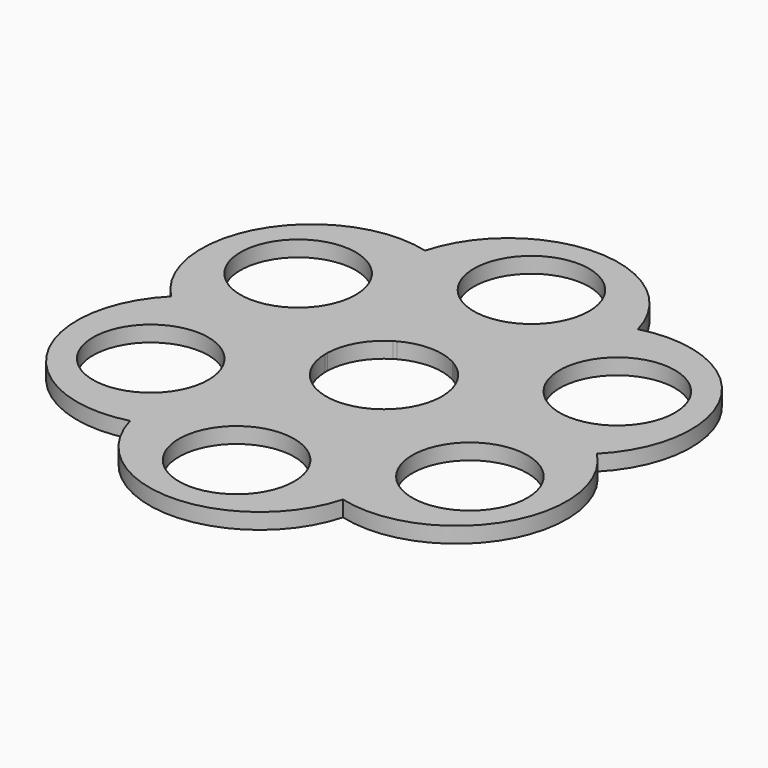
from build123d import *

# Parameters (mm, degrees)
F0_R     = 10.95
F1_DEPTH = 3


with BuildPart() as f1:
    # F0 (on Top) → F1 (new body)
    with BuildSketch(Plane.XY):
        with BuildLine():
            ThreePointArc((10.996136, 0.291549), (9.526279, 5.5), (5.750556, 9.377159))
            ThreePointArc((5.750556, 9.377159), (5.5, 9.526279), (5.245579, 9.668707))
            ThreePointArc((5.245579, 9.668707), (0, 11), (-5.245579, 9.668707))
            ThreePointArc((-5.245579, 9.668707), (-5.5, 9.526279), (-5.750556, 9.377159))
            ThreePointArc((-5.750556, 9.377159), (-9.526279, 5.5), (-10.996136, 0.291549))
            ThreePointArc((-10.996136, 0.291549), (-11, 0), (-10.996136, -0.291549))
            ThreePointArc((-10.996136, -0.291549), (-9.526279, -5.5), (-5.750556, -9.377159))
            ThreePointArc((-5.750556, -9.377159), (-5.5, -9.526279), (-5.245579, -9.668707))
            ThreePointArc((-5.245579, -9.668707), (0, -11), (5.245579, -9.668707))
            ThreePointArc((5.245579, -9.668707), (5.5, -9.526279), (5.750556, -9.377159))
            ThreePointArc((5.750556, -9.377159), (9.526279, -5.5), (10.996136, -0.291549))
            ThreePointArc((10.996136, -0.291549), (11, 0), (10.996136, 0.291549))
        make_face()
        with BuildLine():
            ThreePointArc((40.428516, 0), (43.705472, 25.233366), (20.214258, 35.012122))
            ThreePointArc((20.214258, 35.012122), (0, 50.466732), (-20.214258, 35.012122))
            ThreePointArc((-20.214258, 35.012122), (-43.705472, 25.233366), (-40.428516, 0))
            ThreePointArc((-40.428516, 0), (-43.705472, -25.233366), (-20.214258, -35.012122))
            ThreePointArc((-20.214258, -35.012122), (0, -50.466732), (20.214258, -35.012122))
            ThreePointArc((20.214258, -35.012122), (43.705472, -25.233366), (40.428516, 0))
        make_face()
        with Locations((-30.310889, -17.5)):
            Circle(F0_R, mode=Mode.SUBTRACT)
        with Locations((0, -35)):
            Circle(F0_R, mode=Mode.SUBTRACT)
        with BuildLine():
            ThreePointArc((5.245579, 9.668707), (5.5, 9.526279), (5.750556, 9.377159))
            ThreePointArc((5.750556, 9.377159), (9.526279, 5.5), (10.996136, 0.291549))
            ThreePointArc((10.996136, 0.291549), (11, 0), (10.996136, -0.291549))
            ThreePointArc((10.996136, -0.291549), (9.526279, -5.5), (5.750556, -9.377159))
            ThreePointArc((5.750556, -9.377159), (5.5, -9.526279), (5.245579, -9.668707))
            ThreePointArc((5.245579, -9.668707), (0, -11), (-5.245579, -9.668707))
            ThreePointArc((-5.245579, -9.668707), (-5.5, -9.526279), (-5.750556, -9.377159))
            ThreePointArc((-5.750556, -9.377159), (-9.526279, -5.5), (-10.996136, -0.291549))
            ThreePointArc((-10.996136, -0.291549), (-11, 0), (-10.996136, 0.291549))
            ThreePointArc((-10.996136, 0.291549), (-9.526279, 5.5), (-5.750556, 9.377159))
            ThreePointArc((-5.750556, 9.377159), (-5.5, 9.526279), (-5.245579, 9.668707))
            ThreePointArc((-5.245579, 9.668707), (0, 11), (5.245579, 9.668707))
        make_face(mode=Mode.SUBTRACT)
        with Locations((30.310889, -17.5)):
            Circle(F0_R, mode=Mode.SUBTRACT)
        with Locations((-30.310889, 17.5)):
            Circle(F0_R, mode=Mode.SUBTRACT)
        with Locations((30.310889, 17.5)):
            Circle(F0_R, mode=Mode.SUBTRACT)
        with Locations((0, 35)):
            Circle(F0_R, mode=Mode.SUBTRACT)
    extrude(amount=F1_DEPTH)


solid = f1.part
